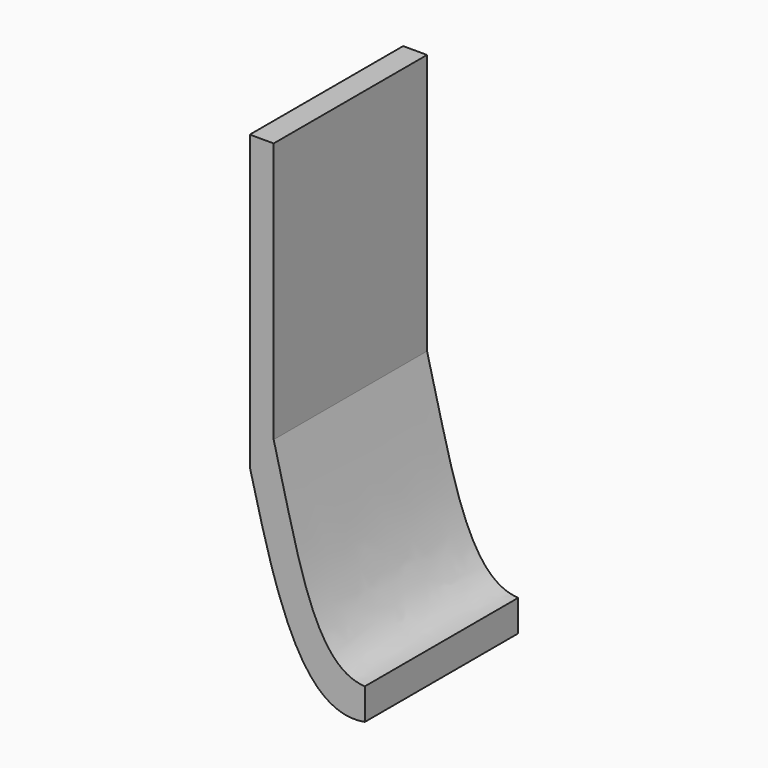
from build123d import *

# Parameters (mm, degrees)
F1_DEPTH = 28


with BuildPart() as f1:
    # F0 (on Front) → F1 (new body)
    with BuildSketch(Plane.XZ):
        with BuildLine():
            Line((-4.5333905146, 34.6125476062), (-8.0259768292, 34.6125476062))
            Line((-8.0259768292, 34.6125476062), (-8.0259768292, -3.4810174257))
            Line((-8.0259768292, -3.4810174257), (-8.0259768292, -8.127710782))
            add(Edge.make_bspline(
                [(-8.0259768292, -8.127710782), (-4.3456946952, -22.6571589788), (-0.6654125612, -37.1866071756), (8.7871747091, -35.4477465153)],
                knots=[0, 0, 0, 0, 0.4330503534, 0.4330503534, 0.4330503534, 0.4330503534], degree=3))
            Line((8.7871747091, -35.4477465153), (8.7871747091, -30.869955197))
            add(Edge.make_bspline(
                [(-4.5333905146, -3.4810174257), (-0.9766891541, -16.9478294021), (1.169743888, -30.5117774218), (8.7871747091, -30.869955197)],
                knots=[0, 0, 0, 0, 0.5097867068, 0.5097867068, 0.5097867068, 0.5097867068], degree=3))
            Line((-4.5333905146, -3.4810174257), (-4.5333905146, 34.6125476062))
        make_face()
    extrude(amount=F1_DEPTH)


solid = f1.part
